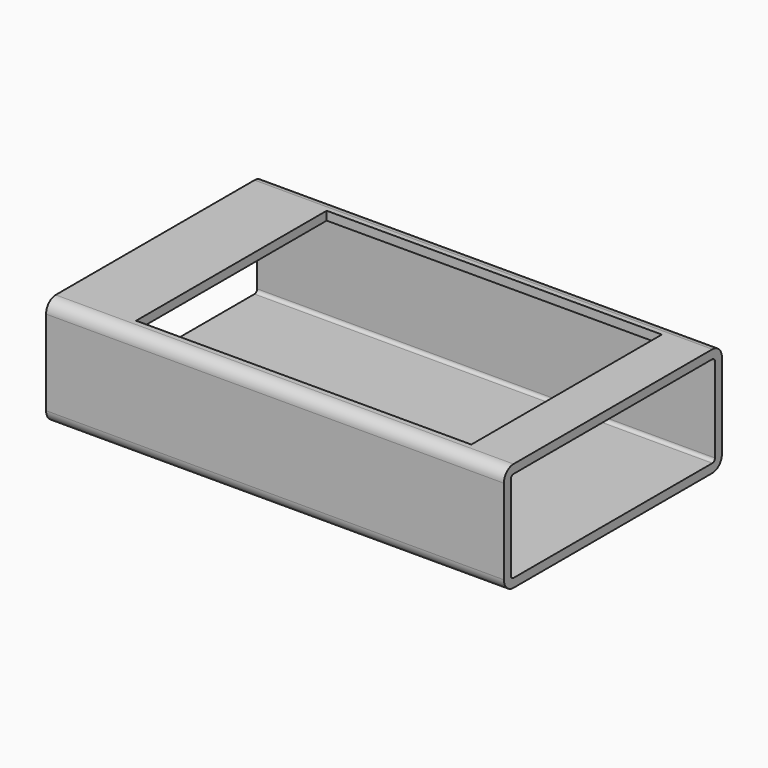
from build123d import *

# Parameters (mm, degrees)
F1_DEPTH = 84
F2_W     = 61.5
F2_H     = 43.7
F3_DEPTH = 1.6


with BuildPart() as f1:
    # F0 (on Right) → F1 (new body)
    with BuildSketch(Plane.YZ):
        with BuildLine():
            Line((47.8, 20), (2.2, 20))
            ThreePointArc((2.2, 20), (0.644365, 19.355635), (0, 17.8))
            Line((0, 17.8), (0, 2.2))
            ThreePointArc((0, 2.2), (0.644365, 0.644365), (2.2, 0))
            Line((2.2, 0), (47.8, 0))
            ThreePointArc((47.8, 0), (49.355635, 0.644365), (50, 2.2))
            Line((50, 2.2), (50, 17.8))
            ThreePointArc((50, 17.8), (49.355635, 19.355635), (47.8, 20))
        make_face()
        with BuildLine():
            ThreePointArc((47.8, 18.4), (48.224264, 18.224264), (48.4, 17.8))
            Line((48.4, 17.8), (48.4, 2.2))
            ThreePointArc((48.4, 2.2), (48.224264, 1.775736), (47.8, 1.6))
            Line((47.8, 1.6), (2.2, 1.6))
            ThreePointArc((2.2, 1.6), (1.775736, 1.775736), (1.6, 2.2))
            Line((1.6, 2.2), (1.6, 17.8))
            ThreePointArc((1.6, 17.8), (1.775736, 18.224264), (2.2, 18.4))
            Line((2.2, 18.4), (47.8, 18.4))
        make_face(mode=Mode.SUBTRACT)
    extrude(amount=-F1_DEPTH)

    # F2 (on face) → F3 (cut, through all)
    with BuildSketch(Plane.XY.offset(20)):
        with Locations((-39.25, 25)):
            Rectangle(F2_W, F2_H)
    extrude(amount=-F3_DEPTH, mode=Mode.SUBTRACT)


solid = f1.part
